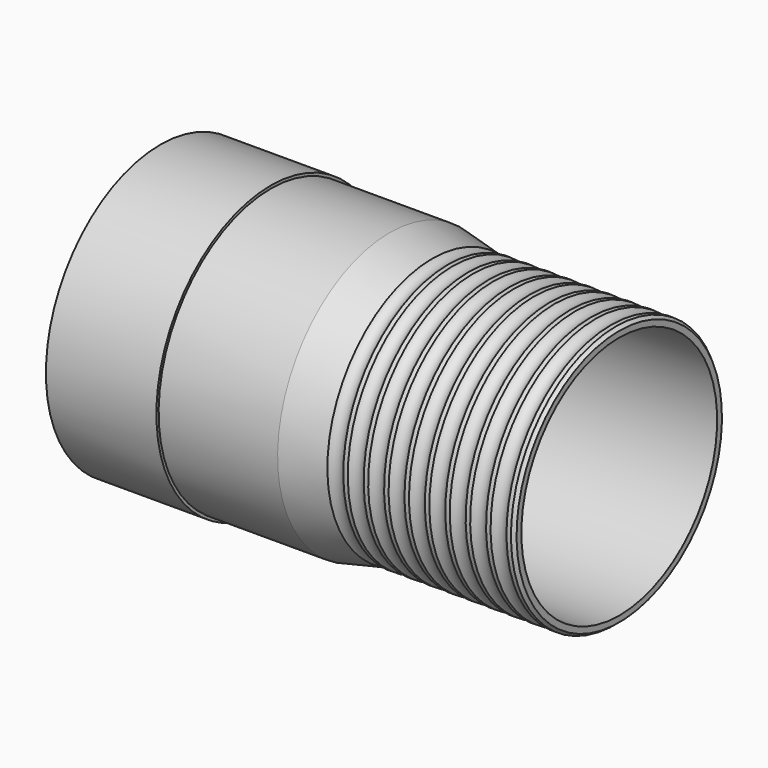
from build123d import *


with BuildPart() as f1:
    # F0 (on Front) → F1 (revolve)
    with BuildSketch(Plane.XZ):
        with BuildLine():
            Line((0, 7), (0, 0))
            Line((0, 0), (135, 0))
            Line((135, 0), (160, -5.15))
            Line((160, -5.15), (270, -5.15))
            Line((270, -5.15), (270, -1.61633))
            ThreePointArc((270, -1.61633), (268.912392, -0.916569), (268, 0))
            Line((268, 0), (265.367497, 0))
            ThreePointArc((265.367497, 0), (260.683748, -2.25), (256, 0))
            Line((256, 0), (253.367497, 0))
            ThreePointArc((253.367497, 0), (248.683748, -2.25), (244, 0))
            Line((244, 0), (241.367497, 0))
            ThreePointArc((241.367497, 0), (236.683748, -2.25), (232, 0))
            Line((232, 0), (229.367497, 0))
            ThreePointArc((229.367497, 0), (224.683748, -2.25), (220, 0))
            Line((220, 0), (217.367497, 0))
            ThreePointArc((217.367497, 0), (212.683748, -2.25), (208, 0))
            Line((208, 0), (205.367497, 0))
            ThreePointArc((205.367497, 0), (200.683748, -2.25), (196, 0))
            Line((196, 0), (193.367497, 0))
            ThreePointArc((193.367497, 0), (188.683748, -2.25), (184, 0))
            Line((184, 0), (181.367497, 0))
            ThreePointArc((181.367497, 0), (176.683748, -2.25), (172, 0))
            Line((172, 0), (169.367497, 0))
            ThreePointArc((169.367497, 0), (164.683748, -2.25), (160, 0))
            Line((160, 0), (135, 5.35))
            Line((135, 5.35), (65, 5.35))
            Line((65, 5.35), (65, 7))
            Line((65, 7), (0, 7))
        make_face()
    revolve(axis=Axis((139.761062, 0, -77.15), (1, 0, 0)))


solid = f1.part
